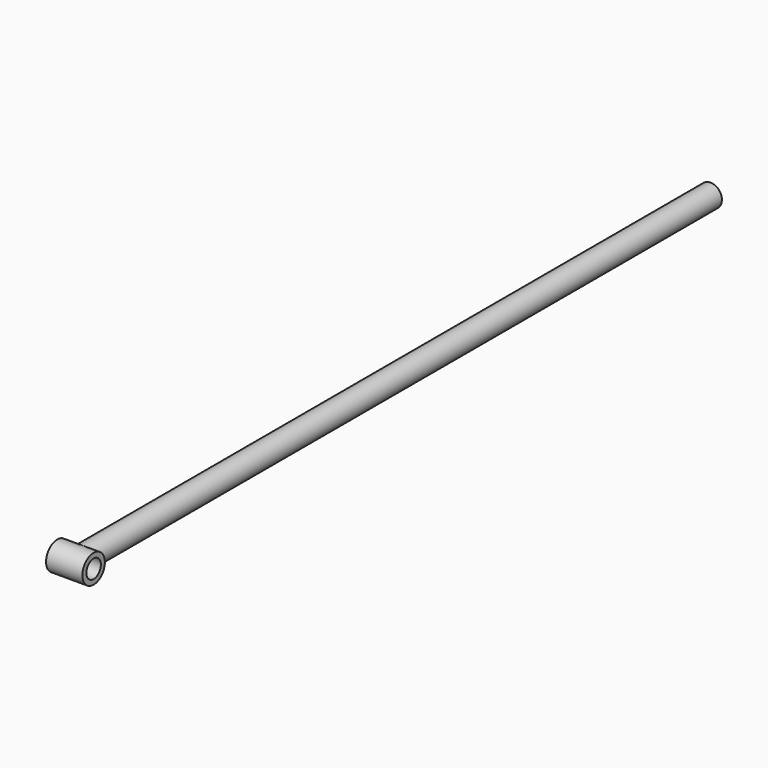
from build123d import *

# Parameters (mm, degrees)
F2_R     = 31
F2_R_2   = 20
F3_DEPTH = 40
F6_R     = 25


with BuildPart() as f3:
    # F2 (on Right) → F3 (new body, symmetric)
    with BuildSketch(Plane.YZ):
        Circle(F2_R)
        Circle(F2_R_2, mode=Mode.SUBTRACT)
    extrude(amount=F3_DEPTH, both=True)

    # F6 (on plane+point) → F7 (join, up to the next surface of F3)
    with BuildSketch(Plane.XZ.offset(-1750)):
        Circle(F6_R)
    extrude(until=Until.NEXT)


solid = f3.part
